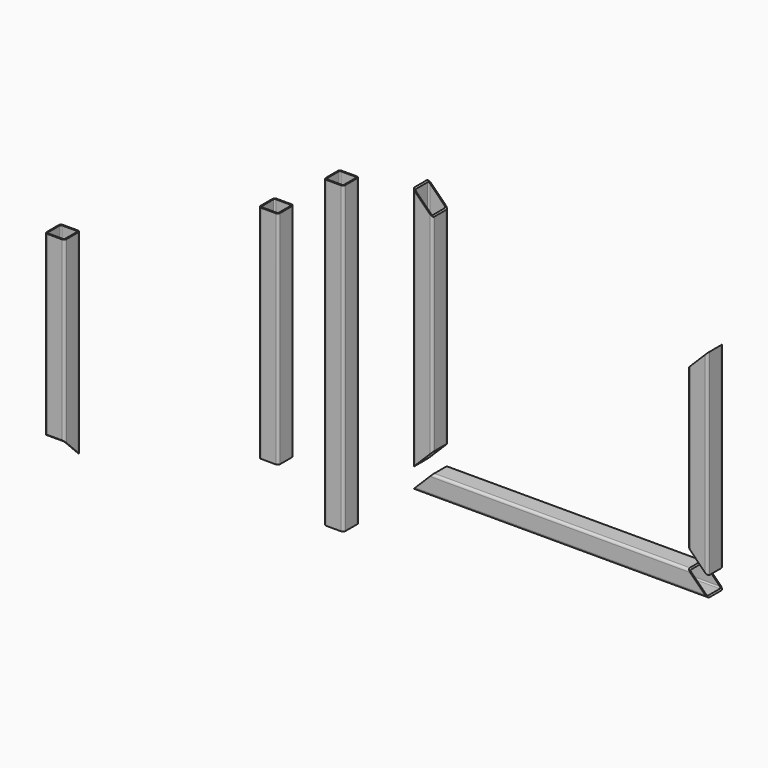
from build123d import *

# Parameters (mm, degrees)
F1_DEPTH  = 600
F3_DEPTH  = 40.001
F5_DEPTH  = 500
F7_DEPTH  = 40.001
F9_DEPTH  = 400
F11_DEPTH = 40.001
F13_DEPTH = 620
F15_DEPTH = 450
F17_DEPTH = 400
F20_DEPTH = 40.001
F21_DEPTH = 40.001


with BuildPart() as f1:
    # F0 (on Right) → F1 (new body)
    with BuildSketch(Plane.YZ):
        with BuildLine():
            ThreePointArc((0, 5), (1.464466, 1.464466), (5, 0))
            Line((5, 0), (35, 0))
            ThreePointArc((35, 0), (38.535534, 1.464466), (40, 5))
            Line((40, 5), (40, 35))
            ThreePointArc((40, 35), (38.535534, 38.535534), (35, 40))
            Line((35, 40), (5, 40))
            ThreePointArc((5, 40), (1.464466, 38.535534), (0, 35))
            Line((0, 35), (0, 5))
        make_face()
        with BuildLine():
            ThreePointArc((37.5, 5), (36.767767, 3.232233), (35, 2.5))
            Line((35, 2.5), (5, 2.5))
            ThreePointArc((5, 2.5), (3.232233, 3.232233), (2.5, 5))
            Line((2.5, 5), (2.5, 35))
            ThreePointArc((2.5, 35), (3.232233, 36.767767), (5, 37.5))
            Line((5, 37.5), (35, 37.5))
            ThreePointArc((35, 37.5), (36.767767, 36.767767), (37.5, 35))
            Line((37.5, 35), (37.5, 5))
        make_face(mode=Mode.SUBTRACT)
    extrude(amount=F1_DEPTH)

    # F2 (on face) → F3 (cut, through all)
    with BuildSketch(Plane.XZ):
        Polygon((0, 40), (0, 0), (40, 40), align=None)
        Polygon((560, 40), (600, 0), (600, 40), align=None)
    extrude(amount=-F3_DEPTH, mode=Mode.SUBTRACT)


with BuildPart() as f5:
    # F4 (on face) → F5 (new body)
    with BuildSketch(Plane.XY.offset(40)):
        with BuildLine():
            ThreePointArc((0, 5), (1.464466, 1.464466), (5, 0))
            Line((5, 0), (35, 0))
            ThreePointArc((35, 0), (38.535534, 1.464466), (40, 5))
            Line((40, 5), (40, 35))
            ThreePointArc((40, 35), (38.535534, 38.535534), (35, 40))
            Line((35, 40), (5, 40))
            ThreePointArc((5, 40), (1.464466, 38.535534), (0, 35))
            Line((0, 35), (0, 5))
        make_face()
        with BuildLine():
            ThreePointArc((37.5, 5), (36.767767, 3.232233), (35, 2.5))
            Line((35, 2.5), (5, 2.5))
            ThreePointArc((5, 2.5), (3.232233, 3.232233), (2.5, 5))
            Line((2.5, 5), (2.5, 35))
            ThreePointArc((2.5, 35), (3.232233, 36.767767), (5, 37.5))
            Line((5, 37.5), (35, 37.5))
            ThreePointArc((35, 37.5), (36.767767, 36.767767), (37.5, 35))
            Line((37.5, 35), (37.5, 5))
        make_face(mode=Mode.SUBTRACT)
    extrude(amount=F5_DEPTH)

    # F6 (on face) → F7 (cut, through all)
    with BuildSketch(Plane.XZ):
        Polygon((40, 80), (0, 40), (40, 40), align=None)
        Polygon((40, 500), (40, 540), (0, 540), align=None)
    extrude(amount=-F7_DEPTH, mode=Mode.SUBTRACT)


with BuildPart() as f9:
    # F8 (on face) → F9 (new body)
    with BuildSketch(Plane.XY.offset(40)):
        with BuildLine():
            ThreePointArc((560, 5), (561.464466, 1.464466), (565, 0))
            Line((565, 0), (595, 0))
            ThreePointArc((595, 0), (598.535534, 1.464466), (600, 5))
            Line((600, 5), (600, 35))
            ThreePointArc((600, 35), (598.535534, 38.535534), (595, 40))
            Line((595, 40), (565, 40))
            ThreePointArc((565, 40), (561.464466, 38.535534), (560, 35))
            Line((560, 35), (560, 5))
        make_face()
        with BuildLine():
            ThreePointArc((597.5, 5), (596.767767, 3.232233), (595, 2.5))
            Line((595, 2.5), (565, 2.5))
            ThreePointArc((565, 2.5), (563.232233, 3.232233), (562.5, 5))
            Line((562.5, 5), (562.5, 35))
            ThreePointArc((562.5, 35), (563.232233, 36.767767), (565, 37.5))
            Line((565, 37.5), (595, 37.5))
            ThreePointArc((595, 37.5), (596.767767, 36.767767), (597.5, 35))
            Line((597.5, 35), (597.5, 5))
        make_face(mode=Mode.SUBTRACT)
    extrude(amount=F9_DEPTH)

    # F10 (on face) → F11 (cut, through all)
    with BuildSketch(Plane.XZ):
        Polygon((560, 400), (600, 440), (560, 440), align=None)
        Polygon((600, 40), (560, 80), (560, 40), align=None)
    extrude(amount=-F11_DEPTH, mode=Mode.SUBTRACT)


with BuildPart() as f13:
    # F12 (on Top) → F13 (new body)
    with BuildSketch(Plane.XY):
        with BuildLine():
            ThreePointArc((-34.353931, -178.378343), (-32.889465, -181.913877), (-29.353931, -183.378343))
            Line((-29.353931, -183.378343), (0.646069, -183.378343))
            ThreePointArc((0.646069, -183.378343), (4.181603, -181.913877), (5.646069, -178.378343))
            Line((5.646069, -178.378343), (5.646069, -148.378343))
            ThreePointArc((5.646069, -148.378343), (4.181603, -144.842809), (0.646069, -143.378343))
            Line((0.646069, -143.378343), (-29.353931, -143.378343))
            ThreePointArc((-29.353931, -143.378343), (-32.889465, -144.842809), (-34.353931, -148.378343))
            Line((-34.353931, -148.378343), (-34.353931, -178.378343))
        make_face()
        with BuildLine():
            ThreePointArc((3.146069, -178.378343), (2.413836, -180.14611), (0.646069, -180.878343))
            Line((0.646069, -180.878343), (-29.353931, -180.878343))
            ThreePointArc((-29.353931, -180.878343), (-31.121698, -180.14611), (-31.853931, -178.378343))
            Line((-31.853931, -178.378343), (-31.853931, -148.378343))
            ThreePointArc((-31.853931, -148.378343), (-31.121698, -146.610576), (-29.353931, -145.878343))
            Line((-29.353931, -145.878343), (0.646069, -145.878343))
            ThreePointArc((0.646069, -145.878343), (2.413836, -146.610576), (3.146069, -148.378343))
            Line((3.146069, -148.378343), (3.146069, -178.378343))
        make_face(mode=Mode.SUBTRACT)
    extrude(amount=F13_DEPTH)


with BuildPart() as f15:
    # F14 (on Top) → F15 (new body)
    with BuildSketch(Plane.XY):
        with BuildLine():
            ThreePointArc((-259.249617, -63.204307), (-257.785151, -66.73984), (-254.249617, -68.204307))
            Line((-254.249617, -68.204307), (-224.249617, -68.204307))
            ThreePointArc((-224.249617, -68.204307), (-220.714083, -66.73984), (-219.249617, -63.204307))
            Line((-219.249617, -63.204307), (-219.249617, -33.204307))
            ThreePointArc((-219.249617, -33.204307), (-220.714083, -29.668773), (-224.249617, -28.204307))
            Line((-224.249617, -28.204307), (-254.249617, -28.204307))
            ThreePointArc((-254.249617, -28.204307), (-257.785151, -29.668773), (-259.249617, -33.204307))
            Line((-259.249617, -33.204307), (-259.249617, -63.204307))
        make_face()
        with BuildLine():
            ThreePointArc((-221.749617, -63.204307), (-222.48185, -64.972073), (-224.249617, -65.704307))
            Line((-224.249617, -65.704307), (-254.249617, -65.704307))
            ThreePointArc((-254.249617, -65.704307), (-256.017384, -64.972073), (-256.749617, -63.204307))
            Line((-256.749617, -63.204307), (-256.749617, -33.204307))
            ThreePointArc((-256.749617, -33.204307), (-256.017384, -31.43654), (-254.249617, -30.704307))
            Line((-254.249617, -30.704307), (-224.249617, -30.704307))
            ThreePointArc((-224.249617, -30.704307), (-222.48185, -31.43654), (-221.749617, -33.204307))
            Line((-221.749617, -33.204307), (-221.749617, -63.204307))
        make_face(mode=Mode.SUBTRACT)
    extrude(amount=F15_DEPTH)


with BuildPart() as f17:
    # F16 (on Top) → F17 (new body)
    with BuildSketch(Plane.XY):
        with BuildLine():
            ThreePointArc((-528.338749, -270.749702), (-526.874283, -274.285236), (-523.338749, -275.749702))
            Line((-523.338749, -275.749702), (-493.338749, -275.749702))
            ThreePointArc((-493.338749, -275.749702), (-489.803216, -274.285236), (-488.338749, -270.749702))
            Line((-488.338749, -270.749702), (-488.338749, -240.749702))
            ThreePointArc((-488.338749, -240.749702), (-489.803216, -237.214169), (-493.338749, -235.749702))
            Line((-493.338749, -235.749702), (-523.338749, -235.749702))
            ThreePointArc((-523.338749, -235.749702), (-526.874283, -237.214169), (-528.338749, -240.749702))
            Line((-528.338749, -240.749702), (-528.338749, -270.749702))
        make_face()
        with BuildLine():
            ThreePointArc((-490.838749, -270.749702), (-491.570982, -272.517469), (-493.338749, -273.249702))
            Line((-493.338749, -273.249702), (-523.338749, -273.249702))
            ThreePointArc((-523.338749, -273.249702), (-525.106516, -272.517469), (-525.838749, -270.749702))
            Line((-525.838749, -270.749702), (-525.838749, -240.749702))
            ThreePointArc((-525.838749, -240.749702), (-525.106516, -238.981936), (-523.338749, -238.249702))
            Line((-523.338749, -238.249702), (-493.338749, -238.249702))
            ThreePointArc((-493.338749, -238.249702), (-491.570982, -238.981936), (-490.838749, -240.749702))
            Line((-490.838749, -240.749702), (-490.838749, -270.749702))
        make_face(mode=Mode.SUBTRACT)
    extrude(amount=F17_DEPTH)

    # F18 (on face) → F20 (cut, through all)
    with BuildSketch(Plane.YZ.offset(-488.338749)):
        Polygon((-275.749702, 0), (-235.749702, 0), (-275.749702, 40), align=None)
    extrude(amount=-F20_DEPTH, mode=Mode.SUBTRACT)

    # F19 (on face) → F21 (cut, through all)
    with BuildSketch(Plane(origin=(0, -235.749702, 0), x_dir=(-1, 0, 0), z_dir=(0, 1, 0))):
        Polygon((528.338749, 0), (528.338749, 40), (488.338749, 0), align=None)
    extrude(amount=-F21_DEPTH, mode=Mode.SUBTRACT)


solid = Compound([f1.part, f5.part, f9.part, f13.part, f15.part, f17.part])
